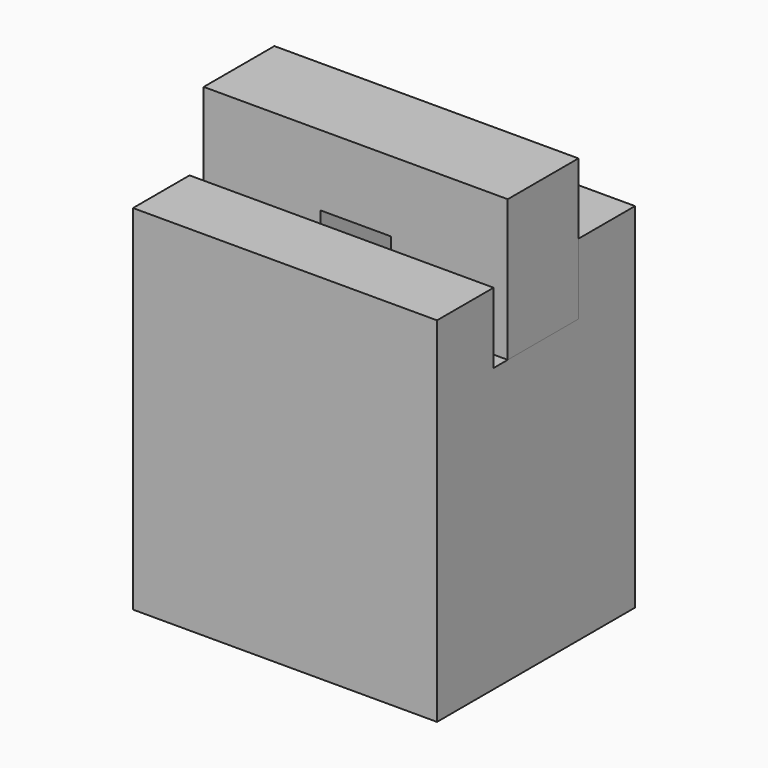
from build123d import *

# Parameters (mm, degrees)
PAD_DEPTH     = 1.5
SKETCH001_W   = 4.3
SKETCH001_H   = 5
PAD001_DEPTH  = 1
SKETCH002_W   = 4.3
SKETCH002_H   = 5
SKETCH002_W_2 = 1
SKETCH002_H_2 = 3
PAD002_DEPTH  = 1
PAD003_DEPTH  = 1.25


with BuildPart() as body:
    # Sketch → Pad (new body)
    with BuildSketch(Plane.XZ):
        Polygon((-2.15, 4), (-2.15, 0), (2.15, 0), (2.15, 4), (1.15, 4), (1.15, 2), (0.5, 2), (0.5, 1), (-0.5, 1), (-0.5, 2), (-1.15, 2), (-1.15, 4), align=None)
    extrude(amount=PAD_DEPTH)

    # Sketch001 (on Face14 of Pad) → Pad001 (join)
    with BuildSketch(Plane.XZ.offset(1.5)):
        with Locations((0, 2.5)):
            Rectangle(SKETCH001_W, SKETCH001_H)
    extrude(amount=PAD001_DEPTH)

    # Sketch002 (on Face4 of Pad001) → Pad002 (join)
    with BuildSketch(Plane(origin=(0, 0, 0), x_dir=(1, 0, 0), z_dir=(0, 1, 0))):
        with Locations((0, -2.5)):
            Rectangle(SKETCH002_W, SKETCH002_H)
        with Locations((0, -2.5)):
            Rectangle(SKETCH002_W_2, SKETCH002_H_2, mode=Mode.SUBTRACT)
    extrude(amount=PAD002_DEPTH)


with BuildPart() as top:
    # Sketch003 → Pad003 (new body)
    with BuildSketch(Plane.XZ):
        Polygon((-2.15, 6), (-2.15, 4), (-0.5, 4), (-0.5, 5), (0.5, 5), (0.5, 4), (2.15, 4), (2.15, 6), align=None)
    extrude(amount=PAD003_DEPTH)


solid = Compound([body.part, top.part])
